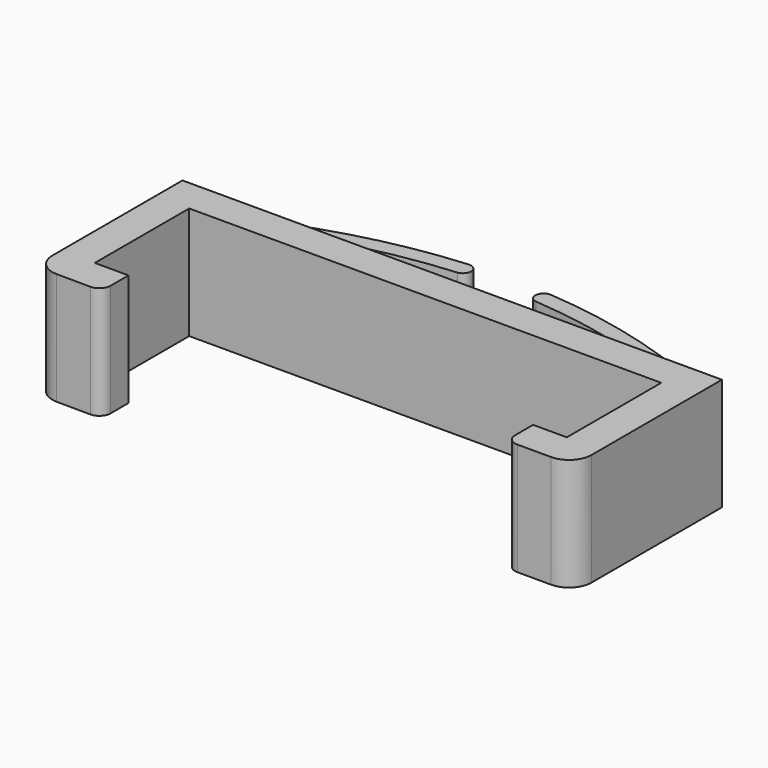
from build123d import *

# Parameters (mm, degrees)
PAD_DEPTH    = 10
SKETCH001_W  = 9.110509
SKETCH001_H  = 17.177114
POCKET_DEPTH = 48.001


with BuildPart() as part:
    # Sketch → Pad (new body)
    with BuildSketch(Plane.XY):
        with BuildLine():
            Line((24, 0), (24, -14.5))
            ThreePointArc((22, -16.5), (23.414214, -15.914214), (24, -14.5))
            Line((22, -16.5), (19, -16.5))
            ThreePointArc((18, -15.5), (18.292893, -16.207107), (19, -16.5))
            Line((18, -15.5), (18, -13.5))
            Line((18, -13.5), (21, -13.5))
            Line((21, -13.5), (21, -3))
            Line((21, -3), (-21, -3))
            Line((-21, -3), (-21, -13.5))
            Line((-21, -13.5), (-18, -13.5))
            Line((-18, -13.5), (-18, -15.492764))
            ThreePointArc((-19.00721, -16.492738), (-18.295447, -16.202415), (-18, -15.492764))
            Line((-19.00721, -16.492738), (-22.01442, -16.471056))
            ThreePointArc((-24, -14.471108), (-23.419303, -15.880214), (-22.01442, -16.471056))
            Line((-24, -14.471108), (-24, 0))
            ThreePointArc((-3.646217, 6.4), (-14.188669, 4.362584), (-24, 0))
            ThreePointArc((-3.479417, 4.95934), (-2.869427, 5.759951), (-3.646217, 6.4))
            ThreePointArc((-3.479417, 4.95934), (-12.488364, 3.35813), (-21, 0))
            Line((-21, 0), (21, 0))
            ThreePointArc((21, 0), (12.488364, 3.35813), (3.479417, 4.95934))
            ThreePointArc((3.646217, 6.4), (2.869427, 5.759951), (3.479417, 4.95934))
            ThreePointArc((24, 0), (14.188669, 4.362584), (3.646217, 6.4))
        make_face()
    extrude(amount=PAD_DEPTH)

    # Sketch001 (on Face16 of Pad) → Pocket (cut, through all)
    with BuildSketch(Plane(origin=(-24, 0, 0), x_dir=(0, -1, 0), z_dir=(-1, 0, 0))):
        with Locations((-4.555255, 16.023105)):
            Rectangle(SKETCH001_W, SKETCH001_H)
    extrude(amount=-POCKET_DEPTH, mode=Mode.SUBTRACT)


solid = part.part
